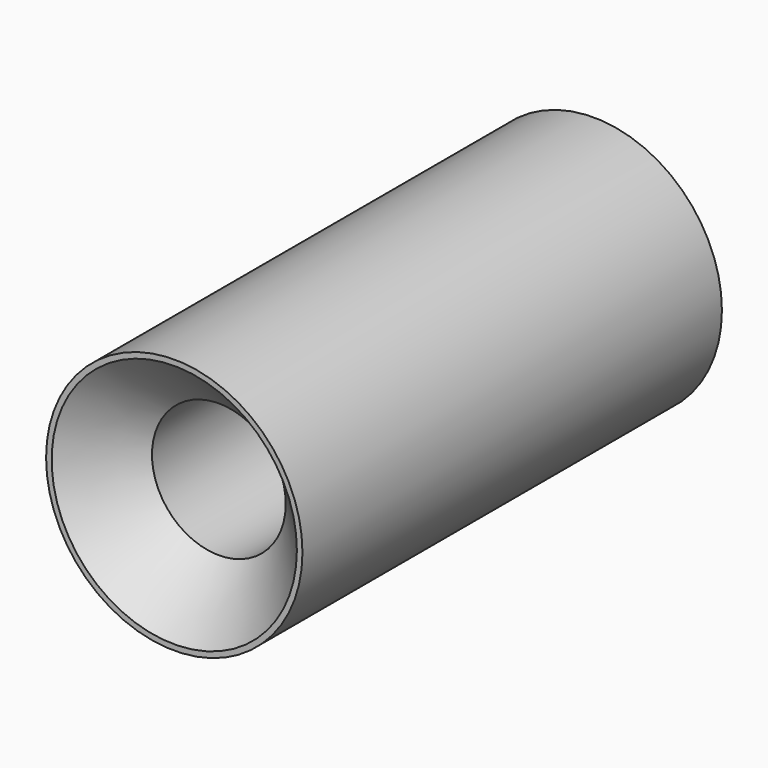
from build123d import *

# Parameters (mm, degrees)
F0_R     = 5.75
F0_R_2   = 3
F1_DEPTH = 23.52
F2_SIZE  = 2.5


with BuildPart() as f1:
    # F0 (on Front) → F1 (new body)
    with BuildSketch(Plane.XZ):
        Circle(F0_R)
        Circle(F0_R_2, mode=Mode.SUBTRACT)
    extrude(amount=F1_DEPTH)

    # F2
    f2_edges = [f1.edges().sort_by_distance(p)[0] for p in [
        (3, -11.76, 0),
        (-3, 0, 0),
        (-3, -23.52, 0),
    ]]
    chamfer(f2_edges, length=F2_SIZE)


solid = f1.part
